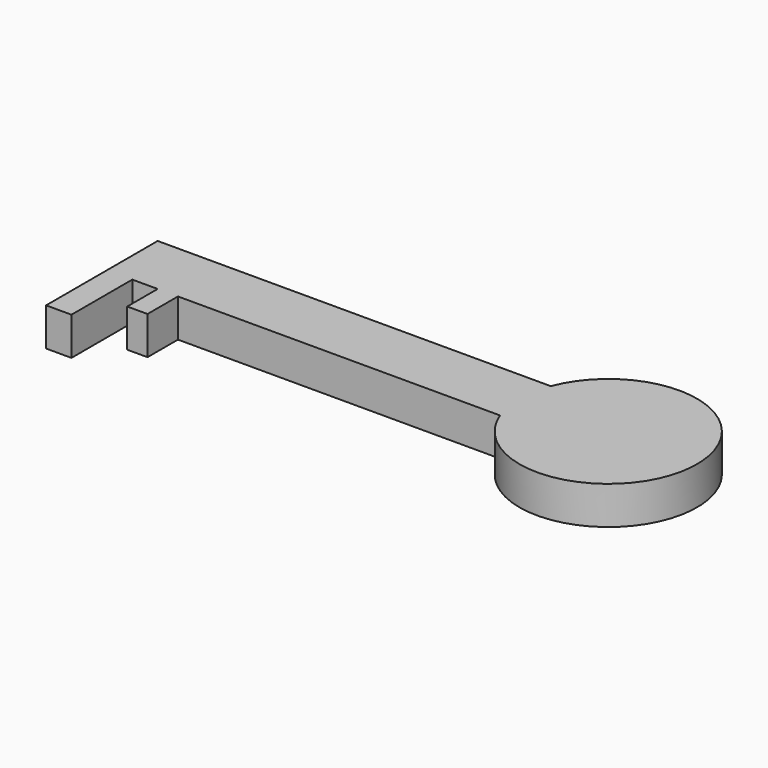
from build123d import *

# Parameters (mm, degrees)
F0_R     = 17.5
F0_W     = 10
F0_H     = 30
F0_W_2   = 8
F0_H_2   = 15
F1_DEPTH = 15


with BuildPart() as f1:
    # F0 (on Top) → F1 (new body)
    with BuildSketch(Plane.XY):
        Polygon((98.3732019503, 40.9987986088), (-56.6267980497, 40.9987986088), (-56.6267980497, 15.9987986088), (-46.6267980497, 15.9987986088), (-36.6267980497, 15.9987986088), (-28.6267980497, 15.9987986088), (-18.6267980497, 15.9987986088), (-11.6267980497, 15.9987986088), (-4.6267980497, 15.9987986088), (98.3732019503, 15.9987986088), align=None)
        with BuildLine():
            ThreePointArc((98.3732019503, 15.9987986088), (166.0649440268, 28.4987986088), (98.3732019503, 40.9987986088))
            Line((98.3732019503, 40.9987986088), (98.3732019503, 15.9987986088))
        make_face()
        with Locations((131.0649440268, 28.4987986088)):
            Circle(F0_R, mode=Mode.SUBTRACT)
        with Locations((131.0649440268, 28.4987986088)):
            Circle(F0_R)
        with Locations((-51.6267980497, 0.9987986088)):
            Rectangle(F0_W, F0_H)
        with Locations((-32.6267980497, 8.4987986088)):
            Rectangle(F0_W_2, F0_H_2)
    extrude(amount=F1_DEPTH)


solid = f1.part
